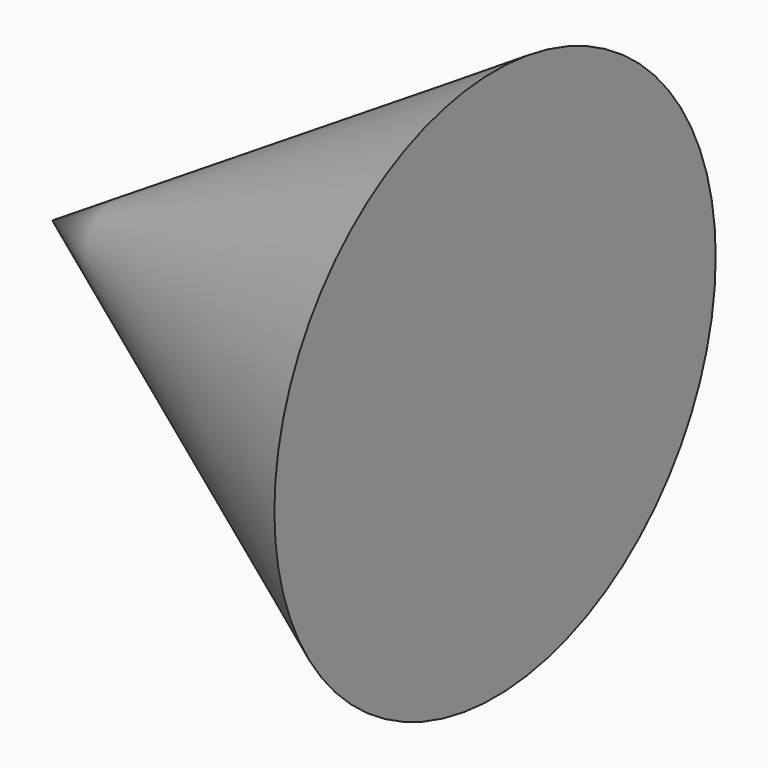
from build123d import *


with BuildPart() as f1:
    # F0 (on Top) → F1 (revolve)
    with BuildSketch(Plane.XY):
        Polygon((28.165994, 36.058664), (-29.713579, 0), (28.165994, 0), align=None)
    revolve(axis=Axis((-0.773792, 0, 0), (1, 0, 0)))


solid = f1.part
